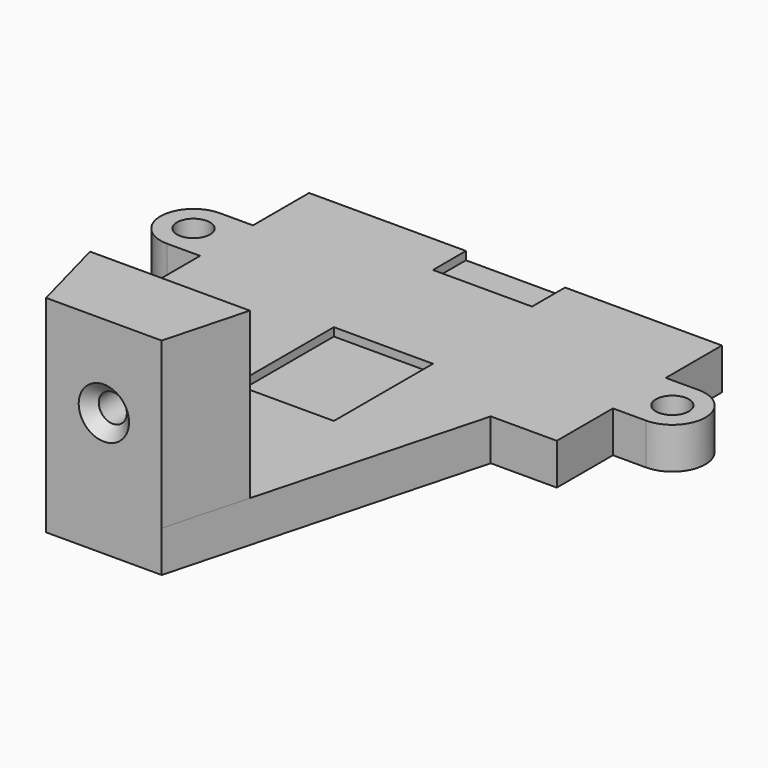
from build123d import *

# Parameters (mm, degrees)
SKETCH_W         = 50
SKETCH_H         = 25
PAD_DEPTH        = 5
PAD001_DEPTH     = 5
SKETCH002_R      = 2
POCKET_DEPTH     = 131.713272
SKETCH004_W      = 12
SKETCH004_H      = 5
POCKET001_DEPTH  = 1
PAD002_DEPTH     = 5
SKETCH008_W      = 8
SKETCH008_H      = 10
POCKET002_DEPTH  = 1
SKETCH009_W      = 12
SKETCH009_H      = 10
POCKET003_DEPTH  = 1
PAD003_DEPTH     = 20
HOLE_D           = 3.4
HOLE_DEPTH       = 25
HOLE_CSINK_D     = 6.1
HOLE_CSINK_ANGLE = 90
HOLE_TIPS_R      = 1.7


with BuildPart() as part:
    # Sketch → Pad (new body)
    with BuildSketch(Plane.XY):
        Rectangle(SKETCH_W, SKETCH_H)
    extrude(amount=PAD_DEPTH)

    # Sketch001 (on Face6 of Pad) → Pad001 (join)
    with BuildSketch(Plane.XY.offset(5)):
        with BuildLine():
            ThreePointArc((-25, -4), (-21, 0), (-25, 4))
            Line((-25, 4), (-29, 4))
            ThreePointArc((-29, 4), (-33, 0), (-29, -4))
            Line((-25, -4), (-29, -4))
        make_face()
    pad001 = extrude(amount=-PAD001_DEPTH)

    # Sketch002 (on Face12 of Pad001) → Pocket (cut, through all)
    with BuildSketch(Plane.XY.offset(5)):
        with Locations((-29, 0)):
            Circle(SKETCH002_R)
    pocket = extrude(amount=-POCKET_DEPTH, mode=Mode.SUBTRACT)

    # Mirrored: Pad001 across Sketch001 V_Axis
    add(pad001.mirror(Plane(origin=(0, 0, 5), x_dir=(0, 0, 1), z_dir=(1, 0, 0))))

    # Mirrored001: Pocket across Sketch002 V_Axis
    add(pocket.mirror(Plane(origin=(0, 0, 5), x_dir=(0, 0, 1), z_dir=(1, 0, 0))), mode=Mode.SUBTRACT)

    # Sketch004 (on Face5 of Mirrored001) → Pocket001 (cut)
    with BuildSketch(Plane.XY.offset(5)):
        with Locations((0, 10)):
            Rectangle(SKETCH004_W, SKETCH004_H)
    pocket001 = extrude(amount=-POCKET001_DEPTH, mode=Mode.SUBTRACT)

    # Mirrored002: Pocket001 across Sketch004 H_Axis
    add(pocket001.mirror(Plane(origin=(0, 0, 5), x_dir=(0, 0, 1), z_dir=(0, 1, 0))), mode=Mode.SUBTRACT)

    # Sketch005 (on Face2 of Mirrored002) → Pad002 (join)
    with BuildSketch(Plane(origin=(0, 0, 0), x_dir=(1, 0, 0), z_dir=(0, 0, -1))):
        Polygon((-17, 12.5), (-7, 49.820508), (7, 49.820508), (17, 12.5), align=None)
    extrude(amount=-PAD002_DEPTH)

    # Sketch008 → Pocket002 (cut)
    with BuildSketch(Plane(origin=(-25, 0, 0), x_dir=(0, -1, 0), z_dir=(-1, 0, 0))):
        with Locations((0, -5)):
            Rectangle(SKETCH008_W, SKETCH008_H)
    extrude(amount=-POCKET002_DEPTH, mode=Mode.SUBTRACT)

    # Sketch009 (on Face17 of Pad002) → Pocket003 (cut)
    with BuildSketch(Plane.XY.offset(5)):
        with Locations((0, -17.5)):
            Rectangle(SKETCH009_W, SKETCH009_H)
    extrude(amount=-POCKET003_DEPTH, mode=Mode.SUBTRACT)

    # Sketch010 (on Face19 of Pocket003) → Pad003 (join)
    with BuildSketch(Plane.XY.offset(5)):
        Polygon((-7, -49.820508), (7, -49.820508), (9.679492, -39.820508), (-9.679492, -39.820508), align=None)
    extrude(amount=PAD003_DEPTH)

    # Hole
    with Locations(Plane.XZ.offset(49.820508)):
        with Locations((0, 15)):
            CounterSinkHole(HOLE_D / 2, HOLE_CSINK_D / 2, depth=HOLE_DEPTH, counter_sink_angle=HOLE_CSINK_ANGLE)

    # Hole tips → Hole tip 1 section 0
    with BuildSketch(Plane.XZ.offset(24.820508), mode=Mode.PRIVATE) as hole_tip_1_s0:
        with Locations((0, 15)):
            Circle(HOLE_TIPS_R)
    loft([hole_tip_1_s0.sketch, Vertex(0, -23.799045, 15)], mode=Mode.SUBTRACT)


solid = part.part
